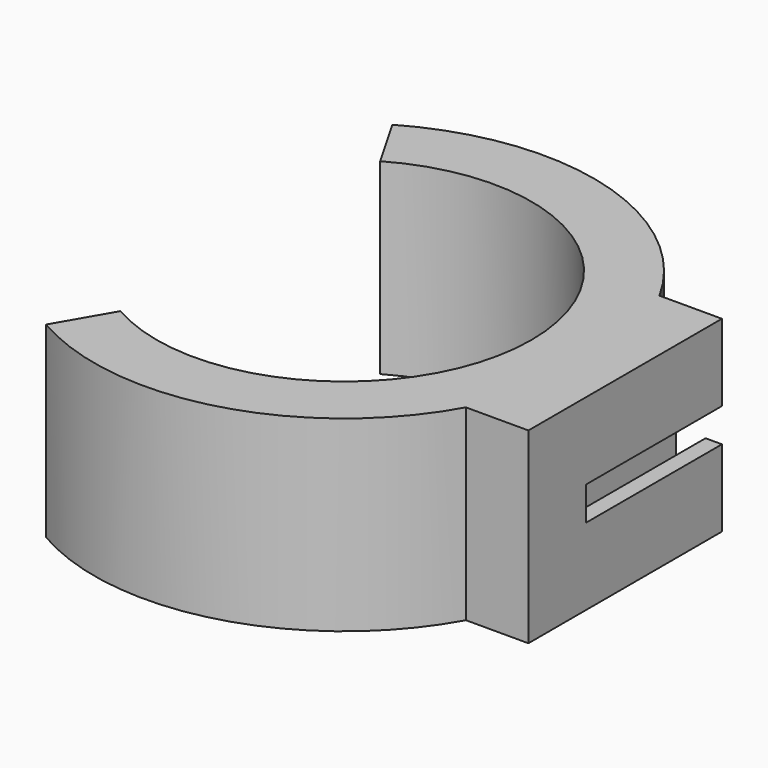
from build123d import *

# Parameters (mm, degrees)
F1_DEPTH = 15
F2_W     = 1.381126
F2_H     = 2.695004
F3_DEPTH = 13.6


with BuildPart() as f1:
    # F0 (on Top) → F1 (new body)
    with BuildSketch(Plane.XY):
        with BuildLine():
            ThreePointArc((-7.5, 12.990381), (15, 0), (-7.5, -12.990381))
            Line((-7.5, -12.990381), (-10, -17.320508))
            ThreePointArc((-10, -17.320508), (5.352331, -19.27051), (17.5, -9.682458))
            Line((17.5, -9.682458), (22.5, -9.682458))
            Line((22.5, -9.682458), (22.5, 9.682458))
            Line((22.5, 9.682458), (17.5, 9.682458))
            ThreePointArc((17.5, 9.682458), (5.352331, 19.27051), (-10, 17.320508))
            Line((-10, 17.320508), (-7.5, 12.990381))
        make_face()
    extrude(amount=F1_DEPTH)

    # F2 (on face) → F3 (cut)
    with BuildSketch(Plane(origin=(0, 9.682458, 0), x_dir=(-1, 0, 0), z_dir=(0, 1, 0))):
        Polygon((-22.5, 6.152498), (-21.187555, 6.152498), (-21.187555, 3.439651), (-18.812445, 3.439651), (-18.812445, 11.560349), (-21.187555, 11.560349), (-21.187555, 8.847502), (-22.5, 8.847502), align=None)
        with Locations((-23.190563, 7.5)):
            Rectangle(F2_W, F2_H)
    extrude(amount=-F3_DEPTH, mode=Mode.SUBTRACT)


solid = f1.part
